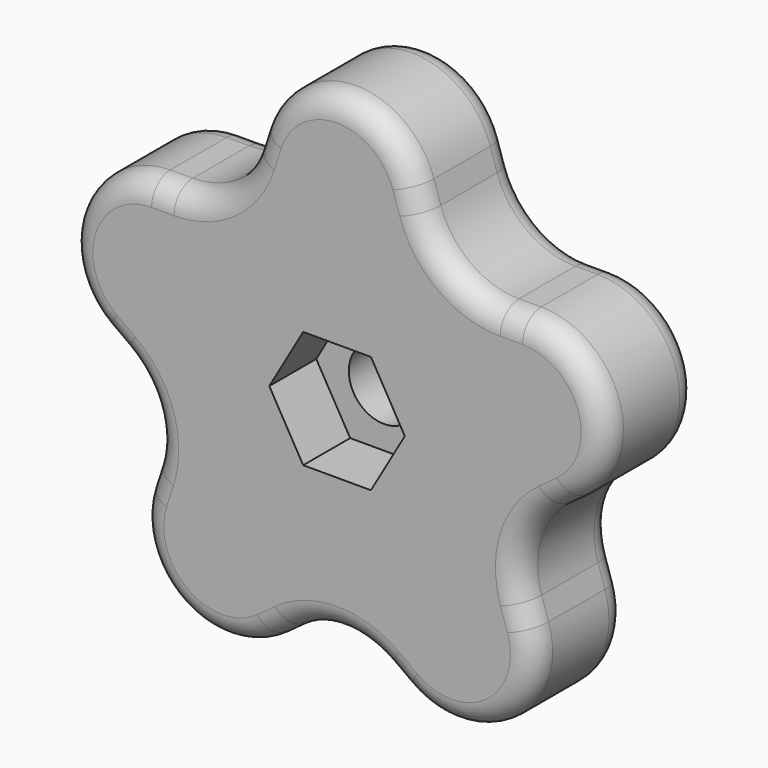
from build123d import *

# Parameters (mm, degrees)
F1_DEPTH = 10
F2_R     = 7
F4_DEPTH = 5
F5_R     = 3
F6_DEPTH = 5
F7_R     = 2


with BuildPart() as f1:
    # F0 (on Front) → F1 (new body)
    with BuildSketch(Plane.XZ):
        with BuildLine():
            Line((37.3484742732, 12.1352549156), (8.8167787844, 12.1352549156))
            ThreePointArc((8.8167787844, 12.1352549156), (13.3650978628, 6.8098574961), (15, 0))
            ThreePointArc((15, 0), (14.8153251089, -2.3465169756), (14.2658477444, -4.6352549156))
            Line((14.2658477444, -4.6352549156), (37.3484742732, 12.1352549156))
        make_face()
        with BuildLine():
            Line((8.8167787844, 12.1352549156), (0, 39.2705098312))
            Line((0, 39.2705098312), (-8.8167787844, 12.1352549156))
            ThreePointArc((-8.8167787844, 12.1352549156), (0, 15), (8.8167787844, 12.1352549156))
        make_face()
        with BuildLine():
            ThreePointArc((-14.2658477444, -4.6352549156), (-14.2658477444, 4.6352549156), (-8.8167787844, 12.1352549156))
            Line((-8.8167787844, 12.1352549156), (-37.3484742732, 12.1352549156))
            Line((-37.3484742732, 12.1352549156), (-14.2658477444, -4.6352549156))
        make_face()
        with BuildLine():
            ThreePointArc((8.8167787844, 12.1352549156), (0, 15), (-8.8167787844, 12.1352549156))
            ThreePointArc((-8.8167787844, 12.1352549156), (-14.2658477444, 4.6352549156), (-14.2658477444, -4.6352549156))
            ThreePointArc((-14.2658477444, -4.6352549156), (-8.8167787844, -12.1352549156), (0, -15))
            ThreePointArc((0, -15), (8.8167787844, -12.1352549156), (14.2658477444, -4.6352549156))
            ThreePointArc((14.2658477444, -4.6352549156), (14.8153251089, -2.3465169756), (15, 0))
            ThreePointArc((15, 0), (13.3650978628, 6.8098574961), (8.8167787844, 12.1352549156))
        make_face()
        with BuildLine():
            ThreePointArc((0, -15), (-8.8167787844, -12.1352549156), (-14.2658477444, -4.6352549156))
            Line((-14.2658477444, -4.6352549156), (-23.0826265288, -31.7705098312))
            Line((-23.0826265288, -31.7705098312), (0, -15))
        make_face()
        with BuildLine():
            ThreePointArc((14.2658477444, -4.6352549156), (8.8167787844, -12.1352549156), (0, -15))
            Line((0, -15), (23.0826265288, -31.7705098312))
            Line((23.0826265288, -31.7705098312), (14.2658477444, -4.6352549156))
        make_face()
    extrude(amount=F1_DEPTH)

    # F2
    f2_edges = [f1.edges().sort_by_distance(p)[0] for p in [
        (0, -5, 39.27051),
        (37.348474, -5, 12.135255),
        (23.082627, -5, -31.77051),
        (-37.348474, -5, 12.135255),
        (-23.082627, -5, -31.77051),
        (-14.265848, -5, -4.635255),
        (0, -5, -15),
        (14.265848, -5, -4.635255),
        (8.816779, -5, 12.135255),
        (-8.816779, -5, 12.135255),
    ]]
    fillet(f2_edges, radius=F2_R)

    # F3 (on face) → F4 (cut)
    with BuildSketch(Plane.XZ.offset(10)):
        Polygon((2.8867513459, 5), (-2.8867513459, 5), (-5.7735026919, 0), (-2.8867513459, -5), (2.8867513459, -5), (5.7735026919, 0), align=None)
    extrude(amount=-F4_DEPTH, mode=Mode.SUBTRACT)

    # F5 (on face) → F6 (cut, through all)
    with BuildSketch(Plane.XZ.offset(5)):
        Circle(F5_R)
    extrude(amount=-F6_DEPTH, mode=Mode.SUBTRACT)

    # F7
    f7_edges = [f1.edges().sort_by_distance(p)[0] for p in [
        (0, -10, 23.618034),
        (9.78808, -10, 13.472136),
        (0, 0, 23.618034),
        (6.951288, 0, 17.876644),
    ]]
    fillet(f7_edges, radius=F7_R)


solid = f1.part
